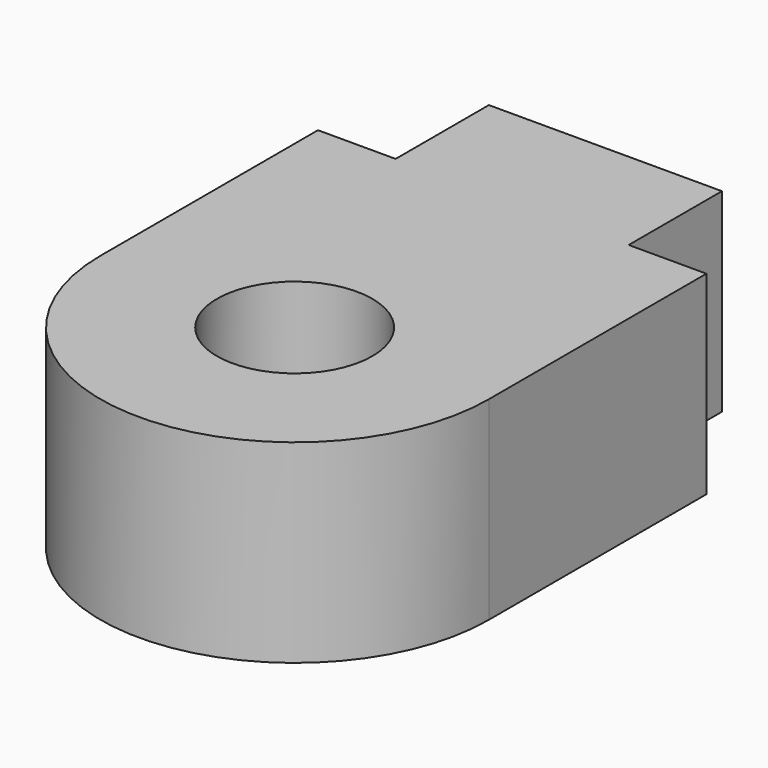
from build123d import *

# Parameters (mm, degrees)
F0_R     = 12.7
F1_DEPTH = 15.875


with BuildPart() as f1:
    # F0 (on Top) → F1 (new body, symmetric)
    with BuildSketch(Plane.XY):
        with BuildLine():
            Line((19.05, 63.5), (-19.05, 63.5))
            Line((-19.05, 63.5), (-19.05, 44.45))
            Line((-19.05, 44.45), (-31.75, 44.45))
            Line((-31.75, 44.45), (-31.75, 0))
            ThreePointArc((-31.75, 0), (0, -31.75), (31.75, 0))
            Line((31.75, 0), (31.75, 44.45))
            Line((31.75, 44.45), (19.05, 44.45))
            Line((19.05, 44.45), (19.05, 63.5))
        make_face()
        Circle(F0_R, mode=Mode.SUBTRACT)
    extrude(amount=F1_DEPTH, both=True)


solid = f1.part
